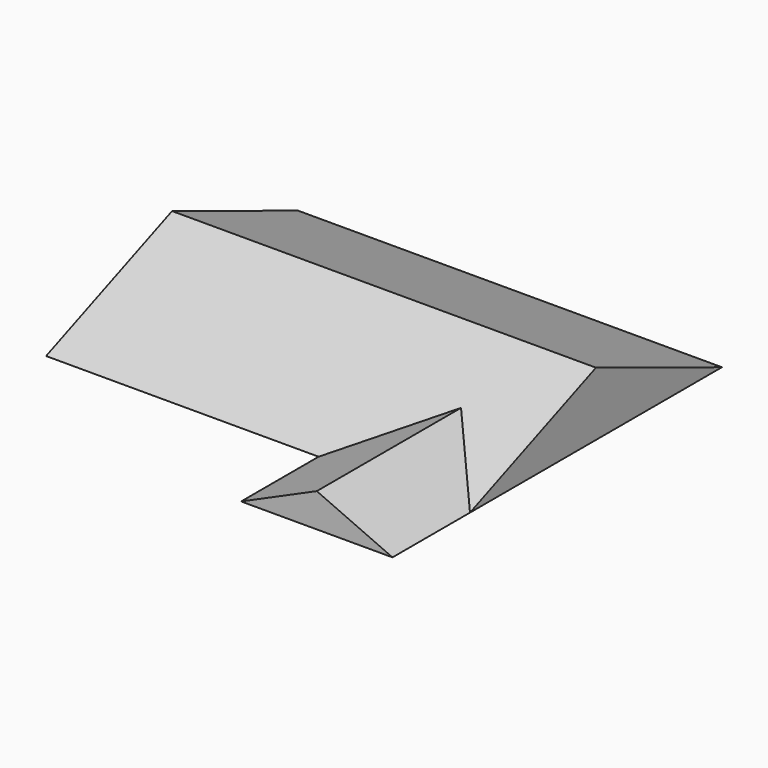
from build123d import *

# Parameters (mm, degrees)
F1_DEPTH = 5334


with BuildPart() as f1:
    # F0 (on Right) → F1 (new body, symmetric)
    with BuildSketch(Plane.YZ):
        Polygon((0, 1600.9135172492), (-3962.4, 0), (3962.4, 0), align=None)
    extrude(amount=F1_DEPTH, both=True)

    # F3 (on offset) → F4 (join, up to the next surface of F1)
    with BuildSketch(Plane.XZ.offset(6400.8)):
        Polygon((1524, 0), (5334, 0), (3429, 848.1606455128), align=None)
    extrude(until=Until.NEXT, dir=(0, 1, 0))


solid = f1.part
